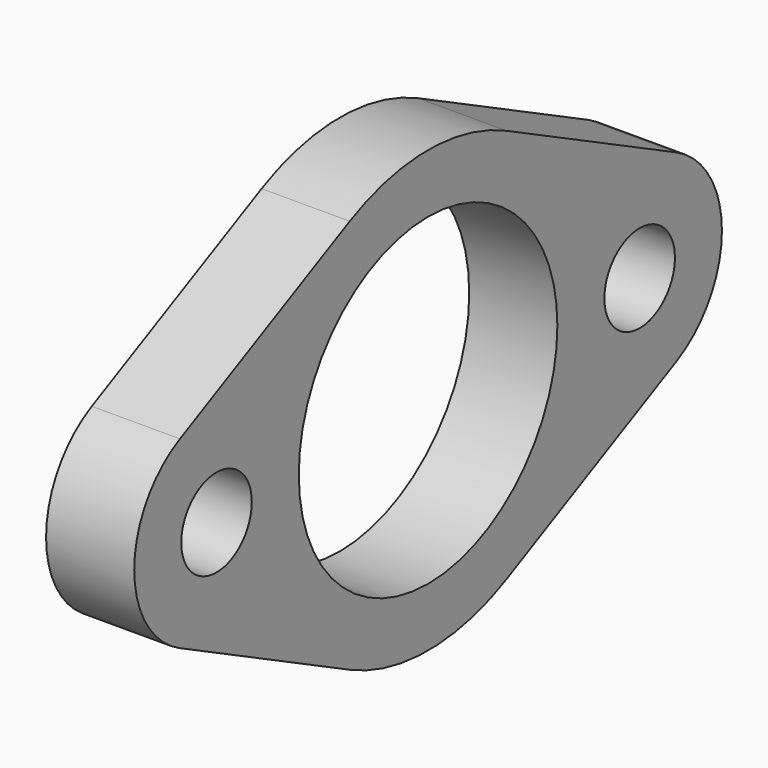
from build123d import *

# Parameters (mm, degrees)
F0_R     = 1.5
F1_DEPTH = 3


with BuildPart() as f1:
    # F0 (on Right) → F1 (new body)
    with BuildSketch(Plane.YZ):
        with BuildLine():
            ThreePointArc((-7.5, 0), (-7.3598007219, 1.443375673), (-6.9444444444, 2.8327886187))
            ThreePointArc((-6.9444444444, 2.8327886187), (-8.707798561, 3.4877812889), (-10.5555555556, 3.1353224577))
            ThreePointArc((-10.5555555556, 3.1353224577), (-12.5, 0), (-10.5555555556, -3.1353224577))
            ThreePointArc((-10.5555555556, -3.1353224577), (-8.707798561, -3.4877812889), (-6.9444444444, -2.8327886187))
            ThreePointArc((-6.9444444444, -2.8327886187), (-7.3598007219, -1.443375673), (-7.5, 0))
        make_face()
        with Locations((-9, 0)):
            Circle(F0_R, mode=Mode.SUBTRACT)
        with BuildLine():
            ThreePointArc((-6.9444444444, -2.8327886187), (-5.8819521777, -1.589898669), (-5.5, 0))
            ThreePointArc((-5.5, 0), (-5.8819521777, 1.589898669), (-6.9444444444, 2.8327886187))
            ThreePointArc((-6.9444444444, 2.8327886187), (-7.3598007219, 1.443375673), (-7.5, 0))
            ThreePointArc((-7.5, 0), (-7.3598007219, -1.443375673), (-6.9444444444, -2.8327886187))
        make_face()
        with BuildLine():
            ThreePointArc((-10.5555555556, 3.1353224577), (-8.707798561, 3.4877812889), (-6.9444444444, 2.8327886187))
            ThreePointArc((-6.9444444444, 2.8327886187), (-5.4939021419, 5.1055890214), (-3.3333333333, 6.7185481236))
            Line((-3.3333333333, 6.7185481236), (-10.5555555556, 3.1353224577))
        make_face()
        with BuildLine():
            ThreePointArc((-5.5, 0), (0, 5.5), (5.5, 0))
            ThreePointArc((5.5, 0), (5.8819521777, 1.589898669), (6.9444444444, 2.8327886187))
            ThreePointArc((6.9444444444, 2.8327886187), (5.4939021419, 5.1055890214), (3.3333333333, 6.7185481236))
            ThreePointArc((3.3333333333, 6.7185481236), (0, 7.5), (-3.3333333333, 6.7185481236))
            ThreePointArc((-3.3333333333, 6.7185481236), (-5.4939021419, 5.1055890214), (-6.9444444444, 2.8327886187))
            ThreePointArc((-6.9444444444, 2.8327886187), (-5.8819521777, 1.589898669), (-5.5, 0))
        make_face()
        with BuildLine():
            ThreePointArc((-3.3333333333, -6.7185481236), (-5.4939021419, -5.1055890214), (-6.9444444444, -2.8327886187))
            ThreePointArc((-6.9444444444, -2.8327886187), (-8.707798561, -3.4877812889), (-10.5555555556, -3.1353224577))
            Line((-10.5555555556, -3.1353224577), (-3.3333333333, -6.7185481236))
        make_face()
        with BuildLine():
            ThreePointArc((6.9444444444, -2.8327886187), (5.8819521777, -1.589898669), (5.5, 0))
            ThreePointArc((5.5, 0), (0, -5.5), (-5.5, 0))
            ThreePointArc((-5.5, 0), (-5.8819521777, -1.589898669), (-6.9444444444, -2.8327886187))
            ThreePointArc((-6.9444444444, -2.8327886187), (-5.4939021419, -5.1055890214), (-3.3333333333, -6.7185481236))
            ThreePointArc((-3.3333333333, -6.7185481236), (0, -7.5), (3.3333333333, -6.7185481236))
            ThreePointArc((3.3333333333, -6.7185481236), (5.4939021419, -5.1055890214), (6.9444444444, -2.8327886187))
        make_face()
        with BuildLine():
            ThreePointArc((6.9444444444, 2.8327886187), (5.8819521777, 1.589898669), (5.5, 0))
            ThreePointArc((5.5, 0), (5.8819521777, -1.589898669), (6.9444444444, -2.8327886187))
            ThreePointArc((6.9444444444, -2.8327886187), (7.3598007219, -1.443375673), (7.5, 0))
            ThreePointArc((7.5, 0), (7.3598007219, 1.443375673), (6.9444444444, 2.8327886187))
        make_face()
        with BuildLine():
            ThreePointArc((10.5555555556, 3.1353224577), (8.707798561, 3.4877812889), (6.9444444444, 2.8327886187))
            ThreePointArc((6.9444444444, 2.8327886187), (7.3598007219, 1.443375673), (7.5, 0))
            ThreePointArc((7.5, 0), (7.3598007219, -1.443375673), (6.9444444444, -2.8327886187))
            ThreePointArc((6.9444444444, -2.8327886187), (8.707798561, -3.4877812889), (10.5555555556, -3.1353224577))
            ThreePointArc((10.5555555556, -3.1353224577), (11.9744280496, -1.8446619684), (12.5, 0))
            ThreePointArc((12.5, 0), (11.9744280496, 1.8446619684), (10.5555555556, 3.1353224577))
        make_face()
        with BuildLine():
            ThreePointArc((10.5, 0), (9, -1.5), (7.5, 0))
            ThreePointArc((7.5, 0), (9, 1.5), (10.5, 0))
        make_face(mode=Mode.SUBTRACT)
        with BuildLine():
            ThreePointArc((3.3333333333, 6.7185481236), (5.4939021419, 5.1055890214), (6.9444444444, 2.8327886187))
            ThreePointArc((6.9444444444, 2.8327886187), (8.707798561, 3.4877812889), (10.5555555556, 3.1353224577))
            Line((10.5555555556, 3.1353224577), (3.3333333333, 6.7185481236))
        make_face()
        with BuildLine():
            ThreePointArc((10.5555555556, -3.1353224577), (8.707798561, -3.4877812889), (6.9444444444, -2.8327886187))
            ThreePointArc((6.9444444444, -2.8327886187), (5.4939021419, -5.1055890214), (3.3333333333, -6.7185481236))
            Line((3.3333333333, -6.7185481236), (10.5555555556, -3.1353224577))
        make_face()
    extrude(amount=F1_DEPTH)


solid = f1.part
